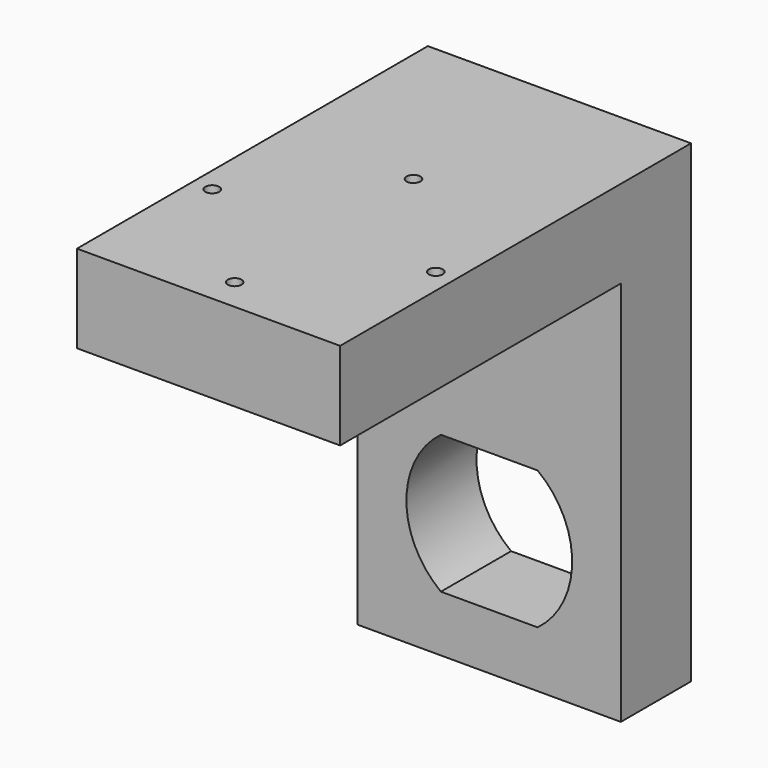
from build123d import *

# Parameters (mm, degrees)
F0_W     = 19.05
F0_H     = 34.29
F1_DEPTH = 6.35
F2_W     = 19.05
F2_H     = 6.35
F3_DEPTH = 25.4
F4_R     = 0.5
F5_DEPTH = 6.35


with BuildPart() as f1:
    # F0 (on Front) → F1 (new body)
    with BuildSketch(Plane.XZ):
        with Locations((0, 8.08)):
            Rectangle(F0_W, F0_H)
        with BuildLine():
            ThreePointArc((-3.5, -5), (-6, 0), (-3.5, 5))
            Line((-3.5, 5), (3.5, 5))
            ThreePointArc((3.5, 5), (6, 0), (3.5, -5))
            Line((3.5, -5), (-3.5, -5))
        make_face(mode=Mode.SUBTRACT)
    extrude(amount=F1_DEPTH)

    # F2 (on face) → F3 (join)
    with BuildSketch(Plane.XZ.offset(6.35)):
        with Locations((0, 22.05)):
            Rectangle(F2_W, F2_H)
    extrude(amount=F3_DEPTH)

    # F4 (on face) → F5 (cut, through all)
    with BuildSketch(Plane.XY.offset(25.225)):
        with Locations((-8.0899, -21.30044)):
            Circle(F4_R)
        with Locations((0, -29.39034)):
            Circle(F4_R)
        with Locations((8.0899, -21.30044)):
            Circle(F4_R)
        with Locations((0, -13.21054)):
            Circle(F4_R)
    extrude(amount=-F5_DEPTH, mode=Mode.SUBTRACT)


solid = f1.part
